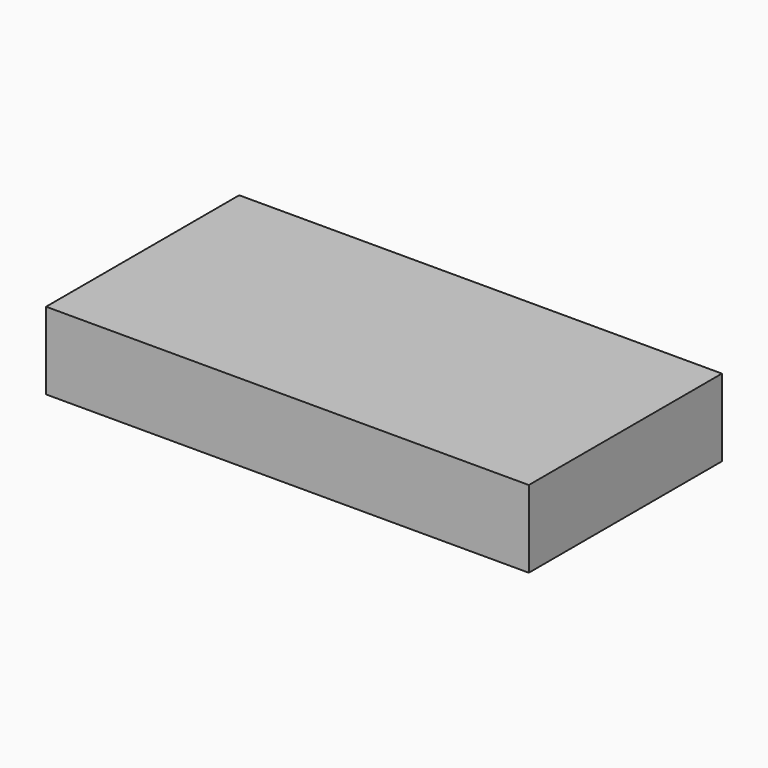
from build123d import *

# Parameters (mm, degrees)
SKETCH_W     = 100
SKETCH_H     = 50
PAD_DEPTH    = 6
SKETCH001_W  = 40
SKETCH001_H  = 20
POCKET_DEPTH = 5
SKETCH003_W  = 100
SKETCH003_H  = 50
PAD001_DEPTH = 10


with BuildPart() as part:
    # Sketch → Pad (new body)
    with BuildSketch(Plane.XY):
        Rectangle(SKETCH_W, SKETCH_H)
    extrude(amount=PAD_DEPTH)

    # Sketch001 (on Face6 of Pad) → Pocket (cut)
    with BuildSketch(Plane.XY.offset(6)):
        Rectangle(SKETCH001_W, SKETCH001_H)
    extrude(amount=-POCKET_DEPTH, mode=Mode.SUBTRACT)

    # Sketch003 (on Face5 of Pocket) → Pad001 (join)
    with BuildSketch(Plane.XY.offset(6)):
        Rectangle(SKETCH003_W, SKETCH003_H)
    extrude(amount=PAD001_DEPTH)


solid = part.part
